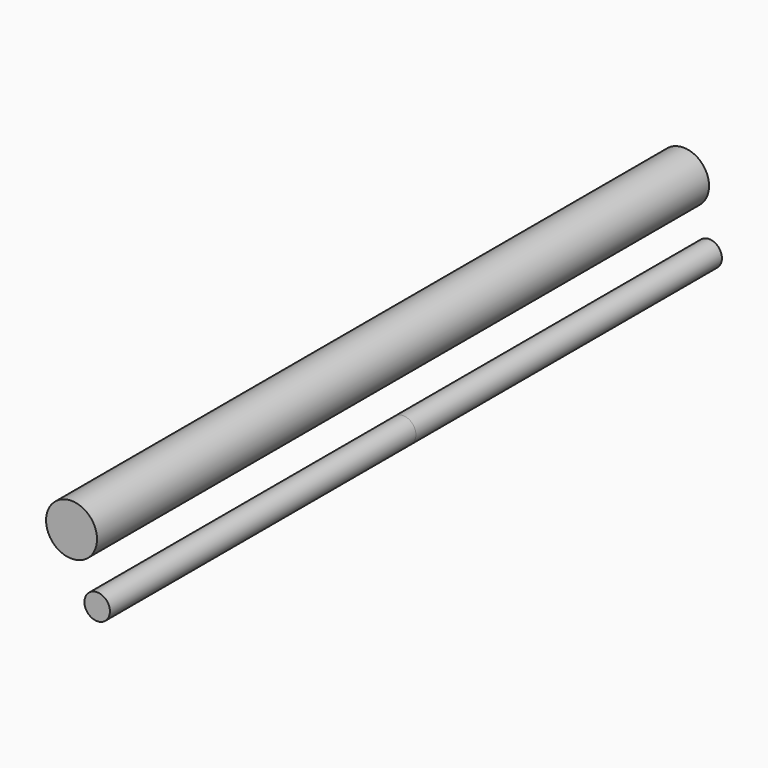
from build123d import *

# Parameters (mm, degrees)
F0_R     = 5
F0_R_2   = 10
F1_DEPTH = 150


with BuildPart() as f1:
    # F0 (on Front) → F1 (new body, symmetric)
    with BuildSketch(Plane.XZ):
        Circle(F0_R)
        with Locations((-10.055784, 23.309031)):
            Circle(F0_R_2)
    extrude(amount=F1_DEPTH, both=True)


solid = f1.part
